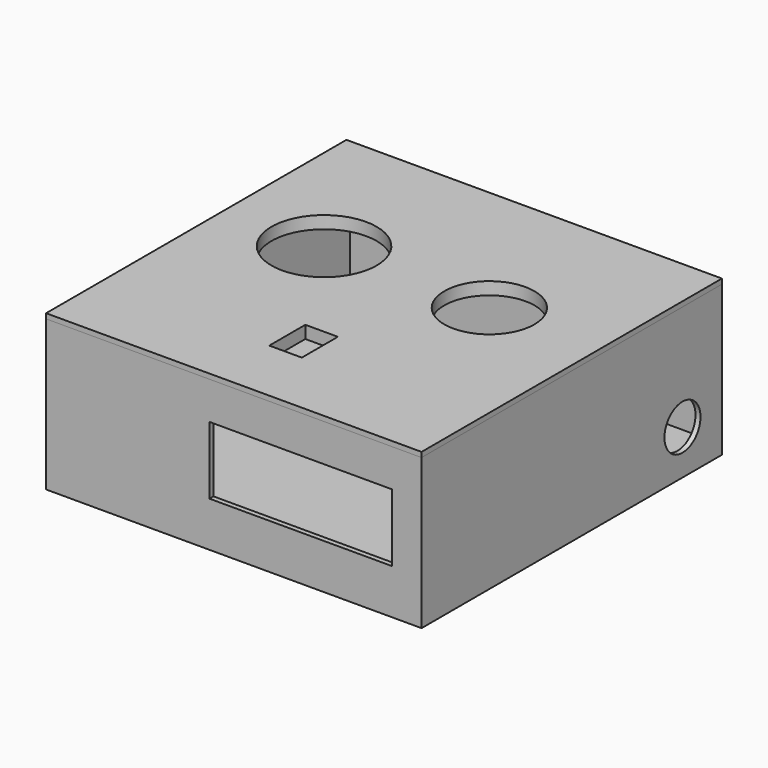
from build123d import *

# Parameters (mm, degrees)
SKETCH002_R                    = 21
SKETCH002_R_2                  = 18
SKETCH002_W                    = 13
SKETCH002_H                    = 18
EXTRUDE002_DEPTH               = 10
BOX002_W                       = 150
BOX002_H                       = 150
BOX002_DEPTH                   = 5
CHAMFER_SIZE                   = 3
SKETCH001_R                    = 9
EXTRUDE001_DEPTH               = 10
SKETCH_AS_DRAWN_W              = 73
SKETCH_AS_DRAWN_H              = 27
EXTRUDE_DEPTH                  = 10
EXTRUDE_ONTO_SKETCH_ROLL_ANGLE = 90
BOX_W                          = 145
BOX_H                          = 146
BOX_DEPTH                      = 57
BOX001_W                       = 150
BOX001_H                       = 150
BOX001_DEPTH                   = 60
CHAMFER001_SIZE                = 1


with BuildPart() as extrude002:
    # Sketch002 (on Face6 of Box002) → Extrude002 (new body)
    with BuildSketch(Plane.XY.offset(5)):
        with Locations((39.413204, 89.551971)):
            Circle(SKETCH002_R)
        with Locations((105.700333, 89.247101)):
            Circle(SKETCH002_R_2)
        with Locations((74.540915, 35.410171)):
            Rectangle(SKETCH002_W, SKETCH002_H)
    extrude(amount=EXTRUDE002_DEPTH)


with BuildPart() as extrude002_1:
    # Extrude002 placement: moved
    add(extrude002.part.moved(Location((0, 0, -7))))


with BuildPart() as tapacaja003:
    # Box002 → Box002 (new body)
    with BuildSketch(Plane.XY):
        with Locations((75, 75)):
            Rectangle(BOX002_W, BOX002_H)
    extrude(amount=BOX002_DEPTH)

    # Cut002: cut Extrude002
    add(extrude002_1.part, mode=Mode.SUBTRACT)


with BuildPart() as tapacaja003_1:
    # Cut002 placement: moved
    add(tapacaja003.part.moved(Location((0, 0, 61))))

    # Chamfer
    chamfer_edges = [tapacaja003_1.edges().sort_by_distance(p)[0] for p in [
        (0, 75, 61),
        (75, 0, 61),
        (75, 150, 61),
        (150, 75, 61),
    ]]
    chamfer(chamfer_edges, length=CHAMFER_SIZE)


with BuildPart() as tapacaja003_2:
    # Chamfer placement: moved
    add(tapacaja003_1.part.moved(Location((0, 0, -4))))


with BuildPart() as obj1:
    # Sketch001 → Extrude001 (new body)
    with BuildSketch(Plane.YZ.offset(150)):
        with Locations((129.311707, 12.728212)):
            Circle(SKETCH001_R)
    extrude(amount=EXTRUDE001_DEPTH)


with BuildPart() as obj1_1:
    # Extrude001 placement: moved
    add(obj1.part.moved(Location((-6, 1, 5))))


with BuildPart() as fusion:
    # Sketch as drawn → Extrude (new)
    with BuildSketch(Plane.XY):
        with Locations((101.75337, 31.497138)):
            Rectangle(SKETCH_AS_DRAWN_W, SKETCH_AS_DRAWN_H)
    extrude(amount=EXTRUDE_DEPTH)


with BuildPart() as fusion_1:
    # Extrude onto Sketch roll: moved
    add(fusion.part.rotate(Axis((0, 0, 0), (1, 0, 0)), EXTRUDE_ONTO_SKETCH_ROLL_ANGLE))


with BuildPart() as fusion_2:
    # Extrude onto Sketch placement: moved
    add(fusion_1.part)


with BuildPart() as fusion_3:
    # Extrude placement: moved
    add(fusion_2.part.moved(Location((0, 6, 0))))

    # Fusion: union obj1
    add(obj1_1.part)


with BuildPart() as cubo:
    # Box → Box (new body)
    with BuildSketch(Plane(origin=(3, 2, 5), x_dir=(1, 0, 0), z_dir=(0, 0, 1))):
        with Locations((72.5, 73)):
            Rectangle(BOX_W, BOX_H)
    extrude(amount=BOX_DEPTH)


with BuildPart() as basecaja:
    # Box001 → Box001 (new body)
    with BuildSketch(Plane.XY):
        with Locations((75, 75)):
            Rectangle(BOX001_W, BOX001_H)
    extrude(amount=BOX001_DEPTH)

    # Cut: cut Cubo
    add(cubo.part, mode=Mode.SUBTRACT)

    # Cut001: cut Fusion
    add(fusion_3.part, mode=Mode.SUBTRACT)

    # Chamfer001
    chamfer001_edges = [basecaja.edges().sort_by_distance(p)[0] for p in [
        (75.5, 2, 60),
        (148, 75, 60),
        (75.5, 148, 60),
        (3, 75, 60),
    ]]
    chamfer(chamfer001_edges, length=CHAMFER001_SIZE)


solid = Compound([tapacaja003_2.part, basecaja.part])
